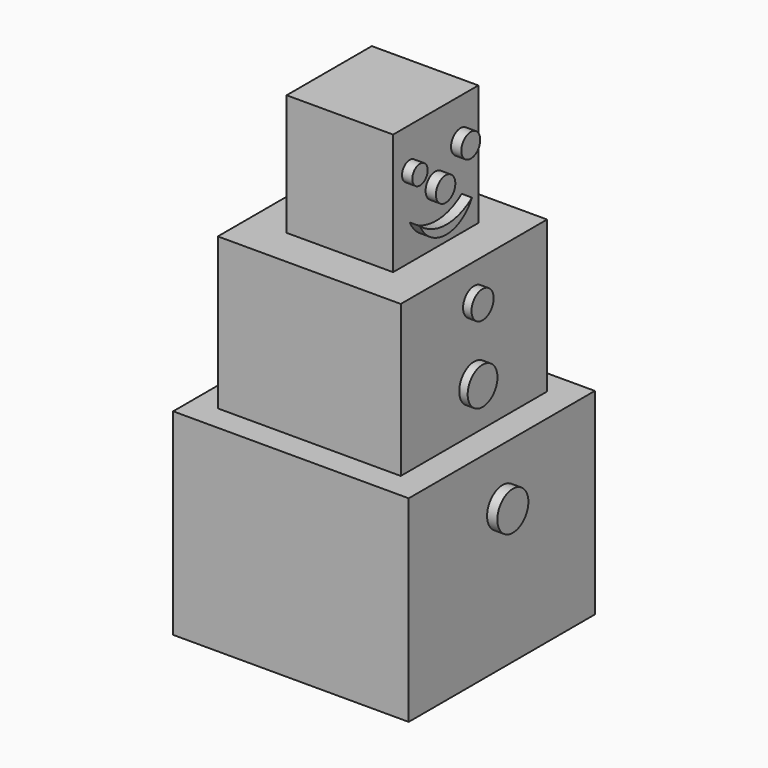
from build123d import *

# Parameters (mm, degrees)
F0_W      = 77.780351
F0_H      = 76.820102
F1_DEPTH  = 65
F2_W      = 60.396654
F2_H      = 60.396655
F3_DEPTH  = 50
F4_W      = 35.160178
F4_H      = 35.160179
F5_DEPTH  = 40
F6_R      = 3.166361
F6_R_2    = 3.894654
F6_R_3    = 4.007563
F6_R_4    = 4.561233
F6_R_5    = 6.154541
F6_R_6    = 6.407927
F7_DEPTH  = 25.4
F8_R      = 4.561233
F8_R_2    = 6.154541
F8_R_3    = 4.007563
F8_R_4    = 3.894654
F8_R_5    = 3.166361
F9_DEPTH  = 10
F10_R     = 3.166361
F10_R_2   = 4.007563
F10_R_3   = 3.894654
F11_DEPTH = 12


with BuildPart() as f1:
    # F0 (on Top) → F1 (new body)
    with BuildSketch(Plane.XY):
        with Locations((-2.563856, 10.494465)):
            Rectangle(F0_W, F0_H)
    extrude(amount=F1_DEPTH)

    # F2 (on face) → F3 (join)
    with BuildSketch(Plane.XY.offset(65)):
        with Locations((-3.268891, 10.740642)):
            Rectangle(F2_W, F2_H)
    extrude(amount=F3_DEPTH)

    # F4 (on face) → F5 (join)
    with BuildSketch(Plane.XY.offset(115)):
        with Locations((-3.268891, 10.740642)):
            Rectangle(F4_W, F4_H)
    extrude(amount=F5_DEPTH)

    # F6 (on face) → F7 (join)
    with BuildSketch(Plane.YZ.offset(14.311198)):
        with Locations((0, 141.694024)):
            Circle(F6_R)
        with Locations((20.969419, 141.694024)):
            Circle(F6_R_2)
        with Locations((10.578918, 133.192703)):
            Circle(F6_R_3)
        with BuildLine():
            ThreePointArc((21.463975, 126.287654), (10.662218, 122.715489), (0, 126.6848))
            ThreePointArc((0, 126.6848), (10.609036, 119.841253), (21.463975, 126.287654))
        make_face()
        with Locations((10.830865, 103.396073)):
            Circle(F6_R_4)
        with Locations((10.830865, 79.781286)):
            Circle(F6_R_5)
        with Locations((10.830865, 46.720583)):
            Circle(F6_R_6)
    extrude(amount=F7_DEPTH)

    # F8 (on face) → F9 (cut)
    with BuildSketch(Plane.YZ.offset(39.711198)):
        with Locations((10.830865, 103.396073)):
            Circle(F8_R)
        with BuildLine():
            ThreePointArc((0, 126.6848), (10.609036, 119.841253), (21.463975, 126.287654))
            ThreePointArc((21.463975, 126.287654), (10.662218, 122.715489), (0, 126.6848))
        make_face()
        with Locations((10.830865, 79.781286)):
            Circle(F8_R_2)
        with Locations((10.578918, 133.192703)):
            Circle(F8_R_3)
        with Locations((20.969419, 141.694024)):
            Circle(F8_R_4)
        with Locations((0, 141.694024)):
            Circle(F8_R_5)
    extrude(amount=-F9_DEPTH, mode=Mode.SUBTRACT)

    # F10 (on face) → F11 (cut)
    with BuildSketch(Plane.YZ.offset(29.711198)):
        with Locations((0, 141.694024)):
            Circle(F10_R)
        with Locations((10.578918, 133.192703)):
            Circle(F10_R_2)
        with Locations((20.969419, 141.694024)):
            Circle(F10_R_3)
        with BuildLine():
            ThreePointArc((0, 126.6848), (10.609036, 119.841253), (21.463975, 126.287654))
            ThreePointArc((21.463975, 126.287654), (10.662218, 122.715489), (0, 126.6848))
        make_face()
    extrude(amount=-F11_DEPTH, mode=Mode.SUBTRACT)


solid = f1.part
